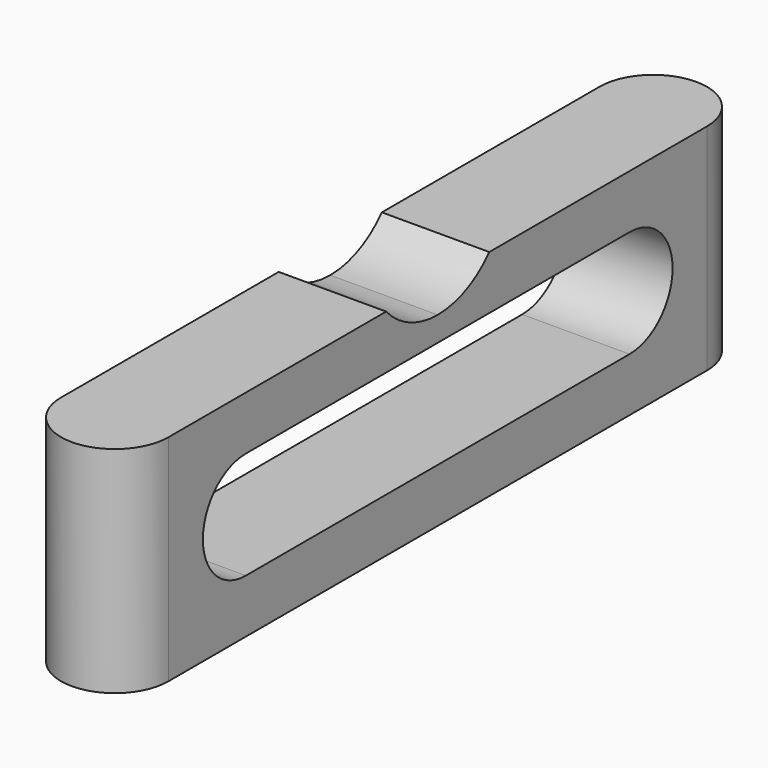
from build123d import *

# Parameters (mm, degrees)
F1_DEPTH = 25.4
F3_DEPTH = 25.4
F5_DEPTH = 25.4


with BuildPart() as f1:
    # F0 (on Top) → F1 (new body)
    with BuildSketch(Plane.XY):
        with BuildLine():
            Line((-34.662835, 32.987532), (-34.662835, -46.569009))
            ThreePointArc((-34.662835, -46.569009), (-28.312835, -52.919009), (-21.962835, -46.569009))
            Line((-21.962835, -46.569009), (-21.962835, 32.987532))
            ThreePointArc((-21.962835, 32.987532), (-28.312835, 39.337532), (-34.662835, 32.987532))
        make_face()
    extrude(amount=F1_DEPTH)

    # F2 (on face) → F3 (cut)
    with BuildSketch(Plane.YZ.offset(-21.962835)):
        with BuildLine():
            Line((21.557532, 19.05), (-35.139009, 19.05))
            ThreePointArc((-35.139009, 19.05), (-41.489009, 12.7), (-35.139009, 6.35))
            Line((-35.139009, 6.35), (21.557532, 6.35))
            ThreePointArc((21.557532, 6.35), (27.907532, 12.7), (21.557532, 19.05))
        make_face()
    extrude(amount=-F3_DEPTH, mode=Mode.SUBTRACT)

    # F4 (on face) → F5 (cut)
    with BuildSketch(Plane.YZ.offset(-21.962835)):
        with BuildLine():
            Line((0.829262, 25.4), (-6.790738, 25.4))
            Line((-6.790738, 25.4), (-6.790738, 21.960208))
            ThreePointArc((-6.790738, 21.960208), (-2.61053, 22.86), (0.829262, 25.4))
        make_face()
        with BuildLine():
            Line((-6.790738, 21.960208), (-6.790738, 25.4))
            Line((-6.790738, 25.4), (-14.410738, 25.4))
            ThreePointArc((-14.410738, 25.4), (-10.970946, 22.86), (-6.790738, 21.960208))
        make_face()
    extrude(amount=-F5_DEPTH, mode=Mode.SUBTRACT)


solid = f1.part
